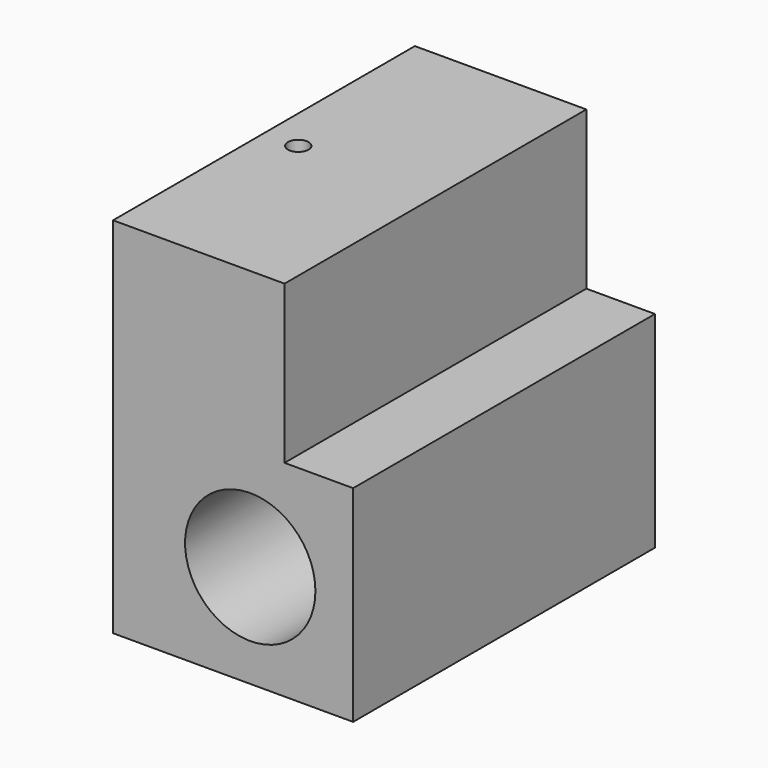
from build123d import *

# Parameters (mm, degrees)
F0_R     = 9.5
F0_W     = 25
F0_H     = 23
F1_DEPTH = 55
F2_R     = 4
F3_DEPTH = 20
F4_R     = 1.5
F5_DEPTH = 3
F6_DEPTH = 55


with BuildPart() as f1:
    # F0 (on Front) → F1 (new body)
    with BuildSketch(Plane.XZ):
        Polygon((0, 4.9239983139), (-25, 4.9239983139), (-25, -25.0760016861), (10, -25.0760016861), (10, 4.9239983139), align=None)
        with Locations((-5, -10.0760016861)):
            Circle(F0_R, mode=Mode.SUBTRACT)
        with Locations((-12.5, 16.4239983139)):
            Rectangle(F0_W, F0_H)
    extrude(amount=F1_DEPTH)

    # F2 (on face) → F3 (cut)
    with BuildSketch(Plane(origin=(-25, 0, 0), x_dir=(0, -1, 0), z_dir=(-1, 0, 0))):
        with Locations((12, 12.9239983139)):
            Circle(F2_R)
        with Locations((43, 12.9239983139)):
            Circle(F2_R)
    extrude(amount=-F3_DEPTH, mode=Mode.SUBTRACT)

    # F4 (on face) → F5 (cut)
    with BuildSketch(Plane(origin=(0, 0, -25.0760016861), x_dir=(1, 0, 0), z_dir=(0, 0, -1))):
        Polygon((-17, 29.2320508076), (-20, 30.9641016151), (-23, 29.2320508076), (-23, 25.7679491924), (-20, 24.0358983849), (-17, 25.7679491924), align=None)
        with Locations((-20, 27.5)):
            Circle(F4_R, mode=Mode.SUBTRACT)
    extrude(amount=-F5_DEPTH, mode=Mode.SUBTRACT)

    # F6 (cut): a face of the model
    f6_faces = [f1.faces().sort_by_distance(p)[0] for p in [
        (-20, -27.5, -25.0760016861),
    ]]
    extrude(f6_faces, amount=-F6_DEPTH, mode=Mode.SUBTRACT)


solid = f1.part
